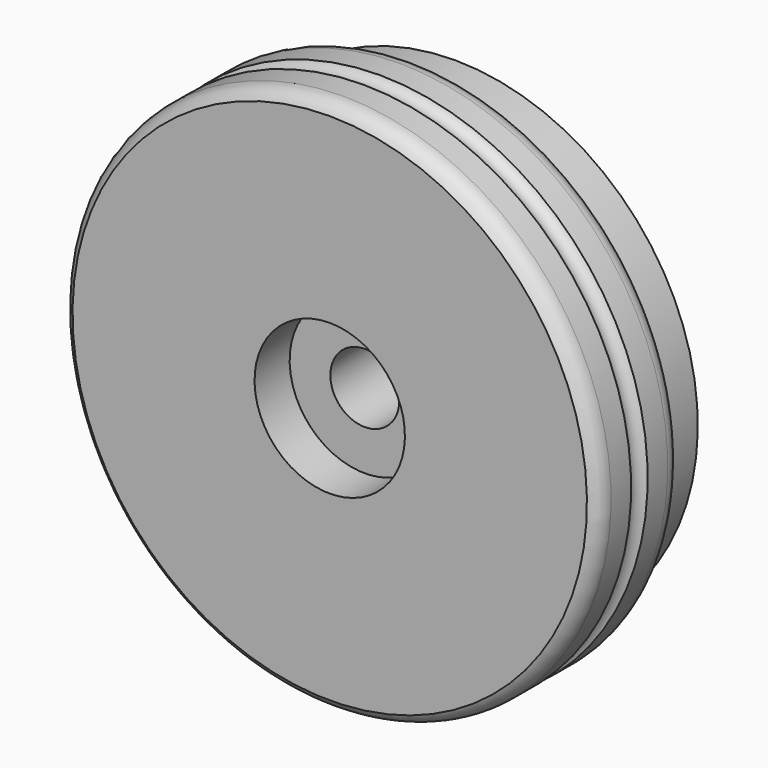
from build123d import *


with BuildPart() as f1:
    # F0 (on Right) → F1 (revolve)
    with BuildSketch(Plane.YZ):
        with BuildLine():
            Line((8, 38.75), (0, 38.75))
            Line((0, 38.75), (0, 39.75))
            ThreePointArc((0, 39.75), (-0.87868, 41.87132), (-3, 42.75))
            Line((-3, 42.75), (-7, 42.75))
            ThreePointArc((-7, 42.75), (-8.65, 41.669375), (-10.3, 42.75))
            Line((-10.3, 42.75), (-14.3, 42.75))
            ThreePointArc((-14.3, 42.75), (-15.893266, 42.291949), (-17, 41.05767))
            Line((-17, 41.05767), (-17, 12))
            Line((-17, 12), (-10, 12))
            Line((-10, 12), (-10, 5.5))
            Line((-10, 5.5), (8, 5.5))
            Line((8, 5.5), (8, 38.75))
        make_face()
    revolve(axis=Axis((0, 0.134684, 0), (0, 1, 0)))


solid = f1.part
